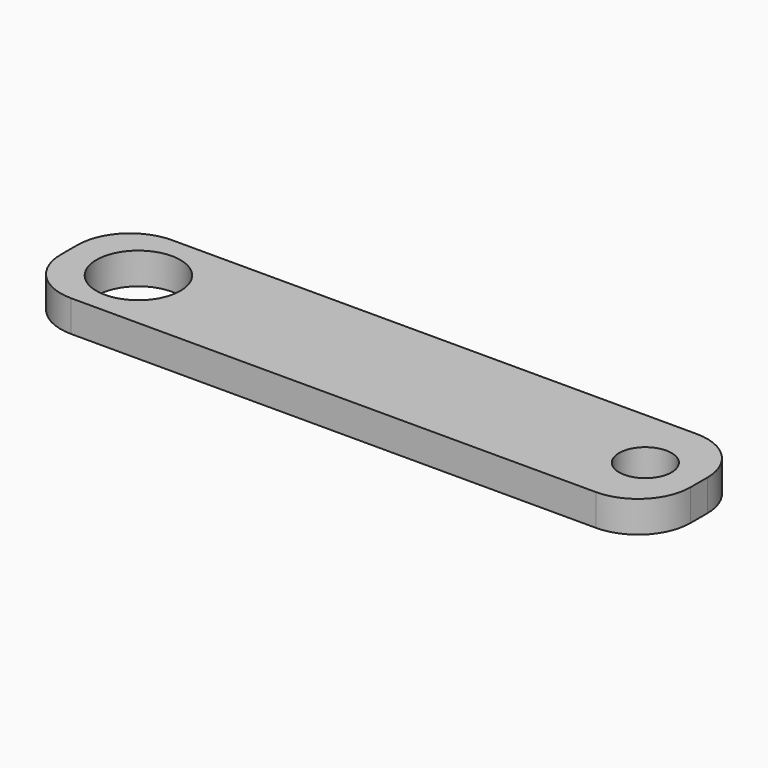
from build123d import *

# Parameters (mm, degrees)
F0_R     = 4
F0_R_2   = 2.5
F1_DEPTH = 3


with BuildPart() as f1:
    # F0 (on Top) → F1 (new body)
    with BuildSketch(Plane.XY):
        with BuildLine():
            ThreePointArc((0, 5), (1.464466, 1.464466), (5, 0))
            Line((5, 0), (55, 0))
            ThreePointArc((55, 0), (58.535534, 1.464466), (60, 5))
            Line((60, 5), (60, 7))
            ThreePointArc((60, 7), (58.535534, 10.535534), (55, 12))
            Line((55, 12), (5, 12))
            ThreePointArc((5, 12), (1.464466, 10.535534), (0, 7))
            Line((0, 7), (0, 5))
        make_face()
        with Locations((6.6, 6)):
            Circle(F0_R, mode=Mode.SUBTRACT)
        with Locations((54.9, 6)):
            Circle(F0_R_2, mode=Mode.SUBTRACT)
    extrude(amount=F1_DEPTH)


solid = f1.part
